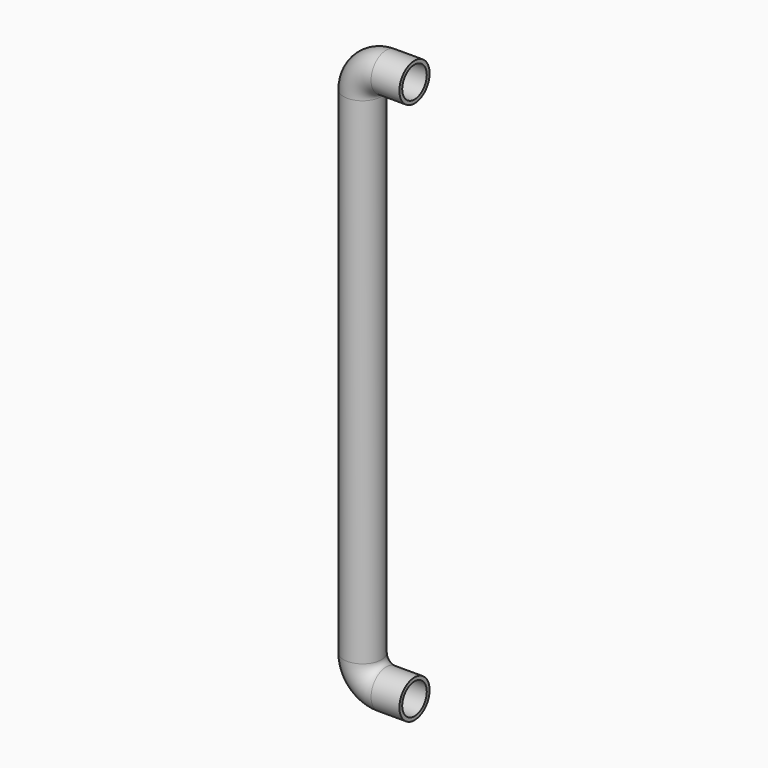
from build123d import *

# Parameters (mm, degrees)
F0_R   = 4
F0_R_2 = 3.25


with BuildPart() as f2:
    # F2: sweep along a path in F1
    with BuildLine(Plane.XZ) as f2_path:
        Line((0, 0), (-6, 0))
        ThreePointArc((-6, 0), (-9.5355339059, -1.4644660941), (-11, -5))
        Line((-11, -5), (-11, -110))
        ThreePointArc((-11, -110), (-9.5355339059, -113.5355339059), (-6, -115))
        Line((-6, -115), (0, -115))
    # F0 (on Right) → F2 (sweep)
    with BuildSketch(Plane.YZ):
        Circle(F0_R)
        Circle(F0_R_2, mode=Mode.SUBTRACT)
    sweep(path=f2_path.line)


solid = f2.part
